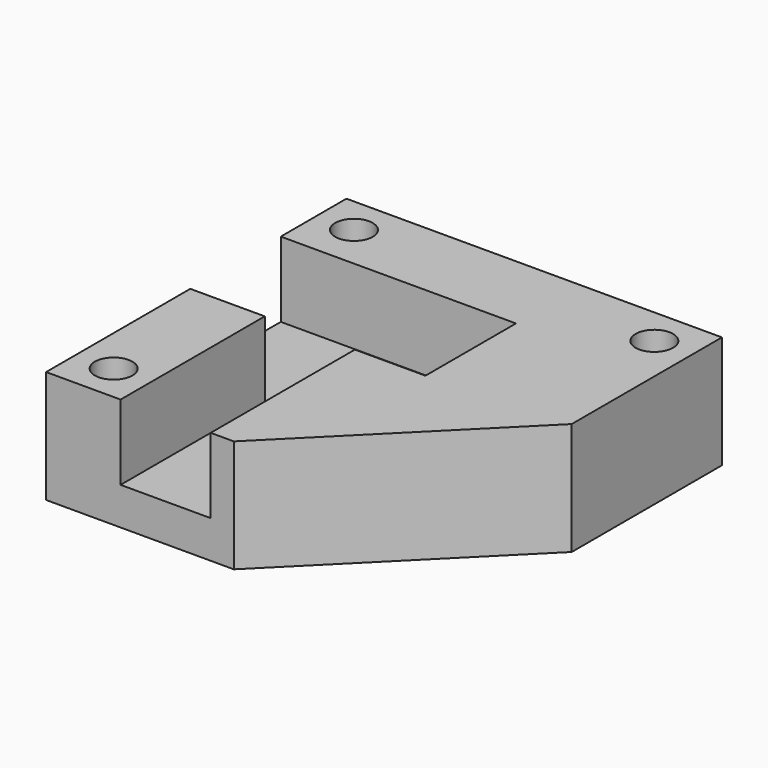
from build123d import *

# Parameters (mm, degrees)
F0_R     = 2.5
F1_DEPTH = 15
F2_W     = 12
F2_H     = 24
F3_DEPTH = 10


with BuildPart() as f1:
    # F0 (on Top) → F1 (new body)
    with BuildSketch(Plane.XY):
        Polygon((50, 50), (0, 50), (0, 0), (25, 0), (50, 25), align=None)
        with Locations((5, 5)):
            Circle(F0_R, mode=Mode.SUBTRACT)
        with Locations((5, 45)):
            Circle(F0_R, mode=Mode.SUBTRACT)
        with Locations((45, 45)):
            Circle(F0_R, mode=Mode.SUBTRACT)
    extrude(amount=F1_DEPTH)

    # F2 (on face) → F3 (cut)
    with BuildSketch(Plane.XY.offset(15)):
        Polygon((31.318273, 39.068684), (0, 39.068684), (0, 24), (9.920389, 24), (21.920389, 24), (31.318273, 24), align=None)
        with Locations((15.920389, 12)):
            Rectangle(F2_W, F2_H)
    extrude(amount=-F3_DEPTH, mode=Mode.SUBTRACT)


solid = f1.part
